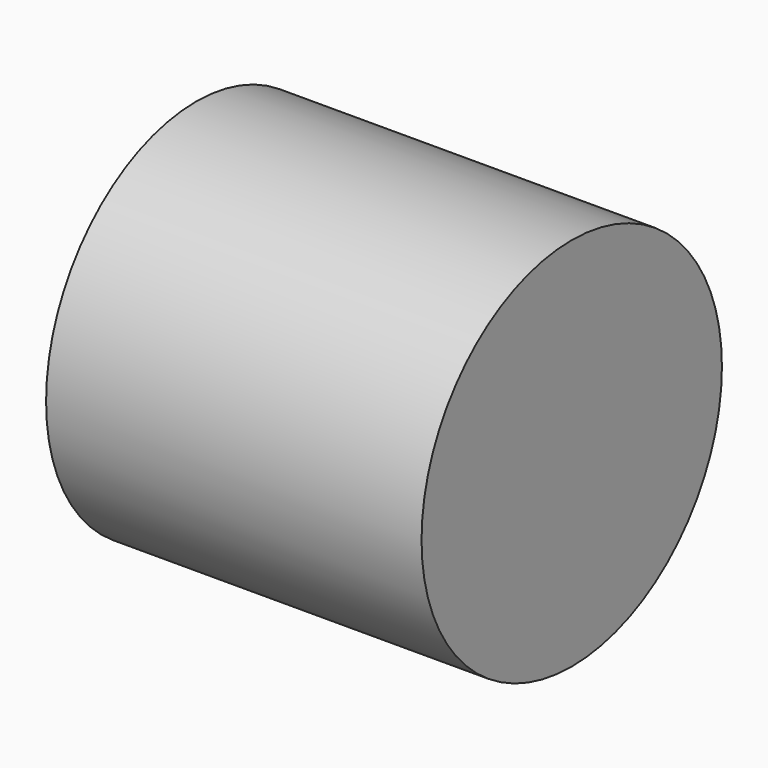
from build123d import *

# Parameters (mm, degrees)
F0_W     = 10
F0_H     = 5
F2_R     = 4.399483
F3_DEPTH = 8.509


with BuildPart() as f1:
    # F0 (on Front) → F1 (revolve)
    with BuildSketch(Plane.XZ):
        with Locations((-5, 2.5)):
            Rectangle(F0_W, F0_H)
    revolve(axis=Axis((-5, 0, 0), (1, 0, 0)))

    # F2 (on face) → F3 (cut)
    with BuildSketch(Plane(origin=(-10, 0, 0), x_dir=(0, -1, 0), z_dir=(-1, 0, 0))):
        Circle(F2_R)
    extrude(amount=-F3_DEPTH, mode=Mode.SUBTRACT)


solid = f1.part
